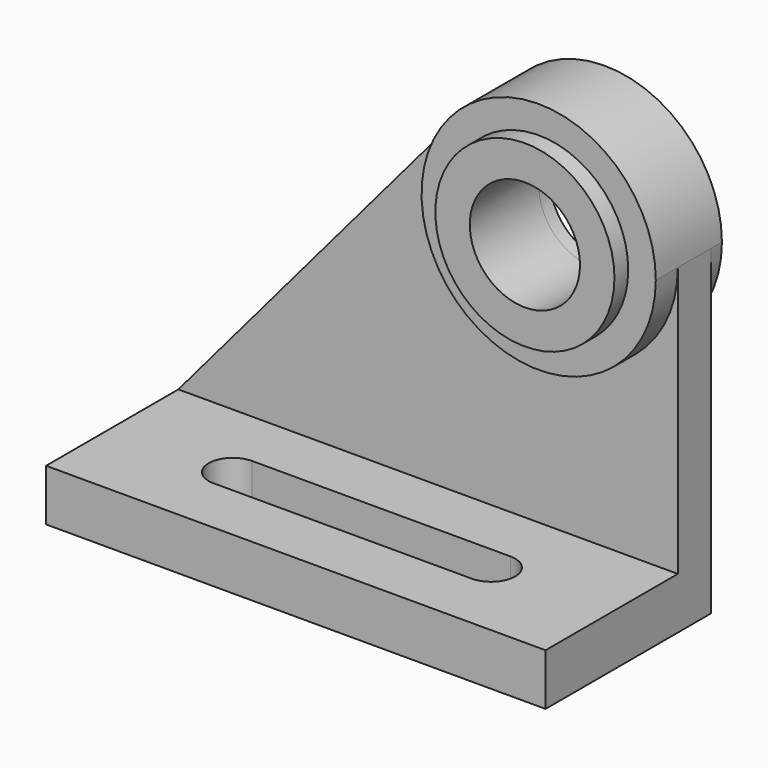
from build123d import *

# Parameters (mm, degrees)
F0_W     = 145
F0_H     = 15
F1_DEPTH = 60
F2_DEPTH = 12
F0_R     = 26
F3_DEPTH = 20
F0_R_2   = 16
F4_DEPTH = 25
F6_DEPTH = 25
F7_DEPTH = 4


with BuildPart() as f1:
    # F0 (on Front) → F1 (new body)
    with BuildSketch(Plane.XZ):
        with Locations((0, -20.210178)):
            Rectangle(F0_W, F0_H)
    extrude(amount=F1_DEPTH)

    # F0 (on Front) → F2 (join)
    with BuildSketch(Plane.XZ):
        with BuildLine():
            Line((12.569365, 87.599361), (-72.5, -12.710178))
            Line((-72.5, -12.710178), (72.5, -12.710178))
            Line((72.5, -12.710178), (72.5, 65.608405))
            ThreePointArc((72.5, 65.608405), (26.787648, 33.689432), (12.569365, 87.599361))
        make_face()
    extrude(amount=F2_DEPTH)

    # F0 (on Front) → F3 (join)
    with BuildSketch(Plane.XZ):
        with BuildLine():
            ThreePointArc((72.5, 65.608405), (50.212352, 97.527377), (12.569365, 87.599361))
            ThreePointArc((12.569365, 87.599361), (26.787648, 33.689432), (72.5, 65.608405))
        make_face()
        with Locations((38.5, 65.608405)):
            Circle(F0_R, mode=Mode.SUBTRACT)
    extrude(amount=F3_DEPTH)

    # F0 (on Front) → F4 (join)
    with BuildSketch(Plane.XZ):
        with Locations((38.5, 65.608405)):
            Circle(F0_R)
        with Locations((38.5, 65.608405)):
            Circle(F0_R_2, mode=Mode.SUBTRACT)
    extrude(amount=F4_DEPTH)

    # F5 (on face) → F6 (cut)
    with BuildSketch(Plane.XY.offset(-12.710178)):
        with BuildLine():
            Line((37.5, -29), (-37.5, -29))
            ThreePointArc((-37.5, -29), (-44.5, -36), (-37.5, -43))
            Line((-37.5, -43), (37.5, -43))
            ThreePointArc((37.5, -43), (44.5, -36), (37.5, -29))
        make_face()
    extrude(amount=-F6_DEPTH, mode=Mode.SUBTRACT)

    # F0 (on Front) → F7 (join)
    with BuildSketch(Plane.XZ):
        with BuildLine():
            ThreePointArc((72.5, 65.608405), (50.212352, 97.527377), (12.569365, 87.599361))
            ThreePointArc((12.569365, 87.599361), (26.787648, 33.689432), (72.5, 65.608405))
        make_face()
        with Locations((38.5, 65.608405)):
            Circle(F0_R, mode=Mode.SUBTRACT)
        with Locations((38.5, 65.608405)):
            Circle(F0_R)
        with Locations((38.5, 65.608405)):
            Circle(F0_R_2, mode=Mode.SUBTRACT)
    extrude(amount=-F7_DEPTH)


solid = f1.part
